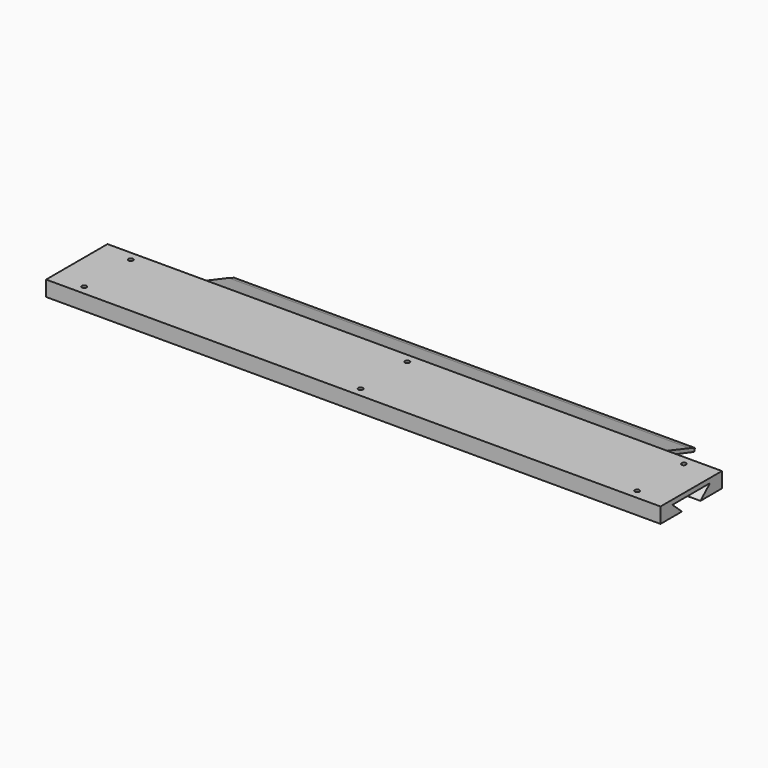
from build123d import *

# Parameters (mm, degrees)
F1_DEPTH = 203.2
F3_D     = 1.524
F5_DEPTH = 152.4


with BuildPart() as f1:
    # F0 (on Right) → F1 (new body)
    with BuildSketch(Plane.YZ):
        Polygon((12.7, 7.694937), (0, 7.694937), (-12.7, 7.694937), (-12.7, 2.614937), (-3.81, 2.614937), (-7.779781, 6.170937), (0, 6.170937), (7.779781, 6.170937), (3.81, 2.614937), (12.7, 2.614937), align=None)
    extrude(amount=F1_DEPTH)

    # F3 (through all)
    with Locations(Plane.XY.offset(7.694937)):
        with Locations((101.6, 9.652), (101.6, -9.652), (10.16, 9.652), (10.16, -9.652), (193.04, 9.652), (193.04, -9.652)):
            Hole(F3_D / 2)


with BuildPart() as f5:
    # F4 (on Right) → F5 (new body)
    with BuildSketch(Plane.YZ):
        Polygon((7.169987, 5.969987), (0, 5.969987), (-7.169987, 5.969987), (-3.735641, 2.879075), (-2.427159, 1.701441), (-0.858493, 0.208051), (-0.858493, -3.517505), (62.288381, -23.625547), (64.721783, -24.400422), (65.053132, -23.379736), (62.789544, -22.535508), (0.858493, -2.430653), (0.858493, 0.208051), (2.427159, 1.701441), (3.735641, 2.879075), align=None)
    extrude(amount=F5_DEPTH)


solid = Compound([f1.part, f5.part])
